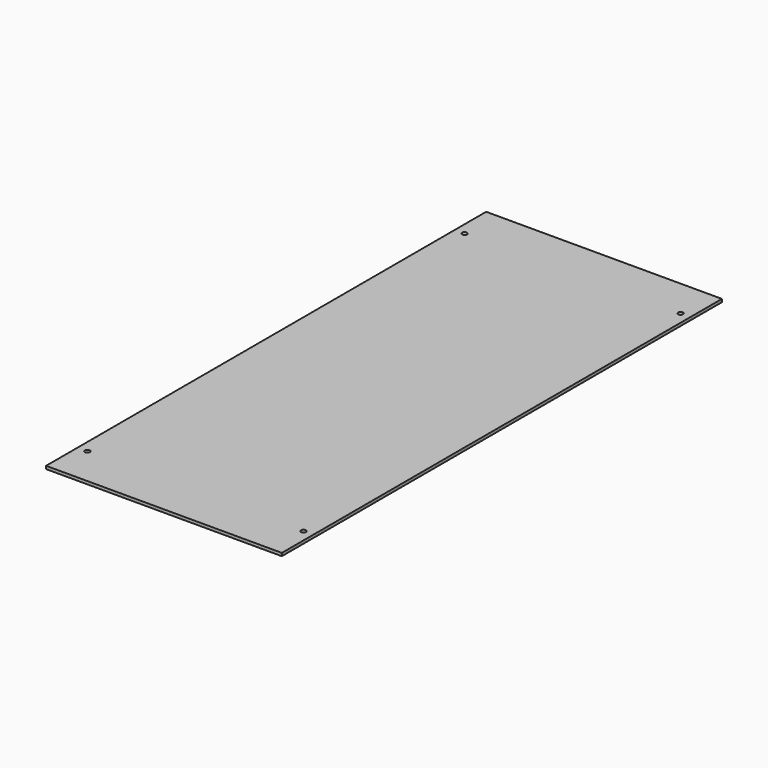
from build123d import *

# Parameters (mm, degrees)
SKETCH_W  = 240
SKETCH_H  = 560
SKETCH_R  = 2.5
PAD_DEPTH = 3


with BuildPart() as part:
    # Sketch → Pad (new body)
    with BuildSketch(Plane.XY):
        Rectangle(SKETCH_W, SKETCH_H)
        with Locations((-110, 240)):
            Circle(SKETCH_R, mode=Mode.SUBTRACT)
        with Locations((110, 240)):
            Circle(SKETCH_R, mode=Mode.SUBTRACT)
        with Locations((-110, -240)):
            Circle(SKETCH_R, mode=Mode.SUBTRACT)
        with Locations((110, -240)):
            Circle(SKETCH_R, mode=Mode.SUBTRACT)
    extrude(amount=PAD_DEPTH)


solid = part.part
